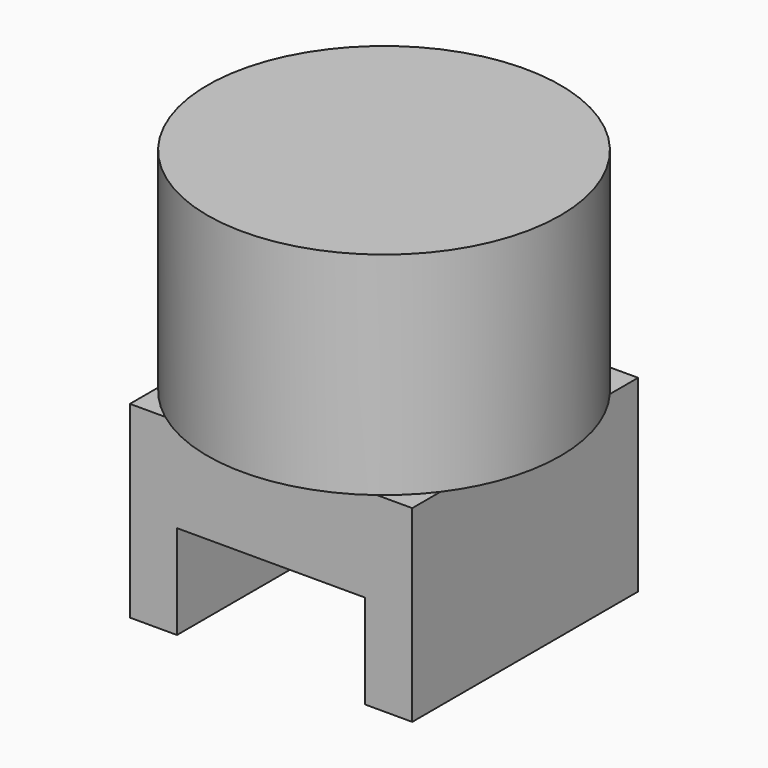
from build123d import *

# Parameters (mm, degrees)
F0_W     = 12
F0_H     = 12
F1_DEPTH = 4
F2_W     = 2
F2_H     = 12
F3_DEPTH = 8
F4_R     = 7.5
F5_DEPTH = 9


with BuildPart() as f1:
    # F0 (on Top) → F1 (new body)
    with BuildSketch(Plane.XY):
        Rectangle(F0_W, F0_H)
    extrude(amount=-F1_DEPTH)

    # F2 (on Top) → F3 (join)
    with BuildSketch(Plane.XY):
        with Locations((-5, 0)):
            Rectangle(F2_W, F2_H)
        with Locations((5, 0)):
            Rectangle(F2_W, F2_H)
    extrude(amount=-F3_DEPTH)

    # F4 (on Top) → F5 (join)
    with BuildSketch(Plane.XY):
        Circle(F4_R)
    extrude(amount=F5_DEPTH)


solid = f1.part
